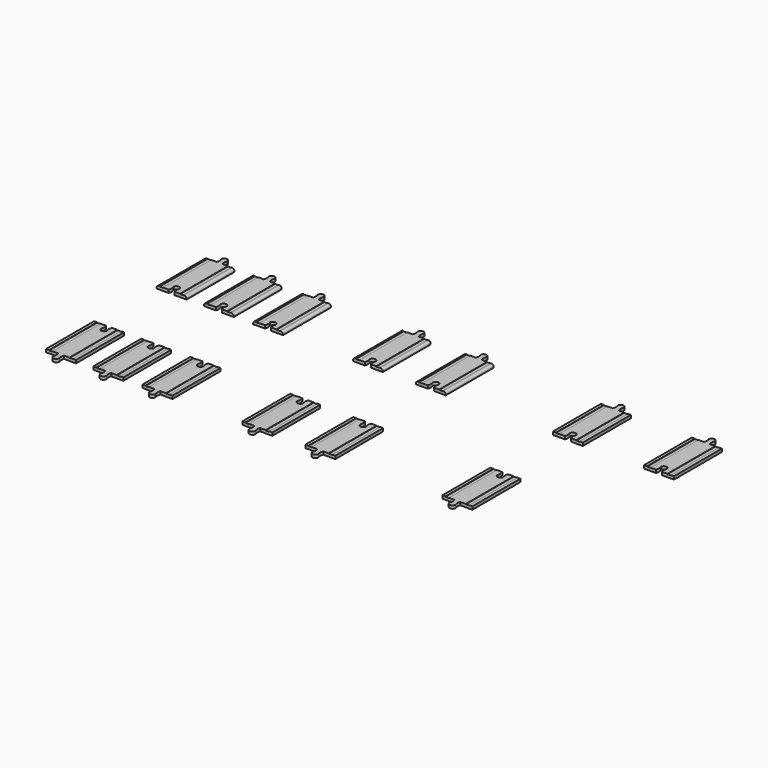
from build123d import *

# Parameters (mm, degrees)
F1_DEPTH = 6.35
F2_W     = 7.62
F2_H     = 127
F3_DEPTH = 0.635
F4_R     = 5.08


with BuildPart() as f1:
    # F0 (on Top) → F1 (new body)
    with BuildSketch(Plane.XY):
        with BuildLine():
            Line((-19.475365, 90.720635), (-44.875365, 90.720635))
            Line((-44.875365, 90.720635), (-44.875365, -36.279365))
            Line((-44.875365, -36.279365), (-19.475365, -36.279365))
            ThreePointArc((-19.475365, -36.279365), (-18.089429, -29.929365), (-19.475365, -23.579365))
            ThreePointArc((-19.475365, -23.579365), (-13.125365, -17.229365), (-6.775365, -23.579365))
            ThreePointArc((-6.775365, -23.579365), (-8.1613, -29.929365), (-6.775365, -36.279365))
            Line((-6.775365, -36.279365), (18.624635, -36.279365))
            Line((18.624635, -36.279365), (18.624635, 90.720635))
            Line((18.624635, 90.720635), (-6.775365, 90.720635))
            ThreePointArc((-6.775365, 90.720635), (-8.1613, 97.070635), (-6.775365, 103.420635))
            ThreePointArc((-6.775365, 103.420635), (-13.125365, 109.770635), (-19.475365, 103.420635))
            ThreePointArc((-19.475365, 103.420635), (-18.089429, 97.070635), (-19.475365, 90.720635))
        make_face()
        with BuildLine():
            ThreePointArc((93.209089, 103.420635), (86.859089, 109.770635), (80.509089, 103.420635))
            ThreePointArc((80.509089, 103.420635), (81.895025, 97.070635), (80.509089, 90.720635))
            Line((80.509089, 90.720635), (55.109089, 90.720635))
            Line((55.109089, 90.720635), (55.109089, -36.279365))
            Line((55.109089, -36.279365), (80.509089, -36.279365))
            ThreePointArc((80.509089, -36.279365), (81.895025, -29.929365), (80.509089, -23.579365))
            ThreePointArc((80.509089, -23.579365), (86.859089, -17.229365), (93.209089, -23.579365))
            ThreePointArc((93.209089, -23.579365), (91.823154, -29.929365), (93.209089, -36.279365))
            Line((93.209089, -36.279365), (118.609089, -36.279365))
            Line((118.609089, -36.279365), (118.609089, 90.720635))
            Line((118.609089, 90.720635), (93.209089, 90.720635))
            ThreePointArc((93.209089, 90.720635), (91.823154, 97.070635), (93.209089, 103.420635))
        make_face()
        with BuildLine():
            ThreePointArc((184.66997, -23.579365), (191.01997, -17.229365), (197.36997, -23.579365))
            ThreePointArc((197.36997, -23.579365), (195.984034, -29.929365), (197.36997, -36.279365))
            Line((197.36997, -36.279365), (222.76997, -36.279365))
            Line((222.76997, -36.279365), (222.76997, 90.720635))
            Line((222.76997, 90.720635), (197.36997, 90.720635))
            ThreePointArc((197.36997, 90.720635), (195.984034, 97.070635), (197.36997, 103.420635))
            ThreePointArc((197.36997, 103.420635), (191.01997, 109.770635), (184.66997, 103.420635))
            ThreePointArc((184.66997, 103.420635), (186.055906, 97.070635), (184.66997, 90.720635))
            Line((184.66997, 90.720635), (159.26997, 90.720635))
            Line((159.26997, 90.720635), (159.26997, -36.279365))
            Line((159.26997, -36.279365), (184.66997, -36.279365))
            ThreePointArc((184.66997, -36.279365), (186.055906, -29.929365), (184.66997, -23.579365))
        make_face()
        with BuildLine():
            ThreePointArc((396.073245, -23.579365), (402.423245, -17.229365), (408.773245, -23.579365))
            ThreePointArc((408.773245, -23.579365), (407.387309, -29.929365), (408.773245, -36.279365))
            Line((408.773245, -36.279365), (434.173245, -36.279365))
            Line((434.173245, -36.279365), (434.173245, 90.720635))
            Line((434.173245, 90.720635), (408.773245, 90.720635))
            ThreePointArc((408.773245, 90.720635), (407.387309, 97.070635), (408.773245, 103.420635))
            ThreePointArc((408.773245, 103.420635), (402.423245, 109.770635), (396.073245, 103.420635))
            ThreePointArc((396.073245, 103.420635), (397.459181, 97.070635), (396.073245, 90.720635))
            Line((396.073245, 90.720635), (370.673245, 90.720635))
            Line((370.673245, 90.720635), (370.673245, -36.279365))
            Line((370.673245, -36.279365), (396.073245, -36.279365))
            ThreePointArc((396.073245, -36.279365), (397.459181, -29.929365), (396.073245, -23.579365))
        make_face()
        with BuildLine():
            ThreePointArc((542.193569, 90.720635), (540.807633, 97.070635), (542.193569, 103.420635))
            ThreePointArc((542.193569, 103.420635), (535.843569, 109.770635), (529.493569, 103.420635))
            ThreePointArc((529.493569, 103.420635), (530.879504, 97.070635), (529.493569, 90.720635))
            Line((529.493569, 90.720635), (504.093569, 90.720635))
            Line((504.093569, 90.720635), (504.093569, -36.279365))
            Line((504.093569, -36.279365), (529.493569, -36.279365))
            ThreePointArc((529.493569, -36.279365), (530.879504, -29.929365), (529.493569, -23.579365))
            ThreePointArc((529.493569, -23.579365), (535.843569, -17.229365), (542.193569, -23.579365))
            ThreePointArc((542.193569, -23.579365), (540.807633, -29.929365), (542.193569, -36.279365))
            Line((542.193569, -36.279365), (567.593569, -36.279365))
            Line((567.593569, -36.279365), (567.593569, 90.720635))
            Line((567.593569, 90.720635), (542.193569, 90.720635))
        make_face()
        with BuildLine():
            ThreePointArc((-19.475365, -341.495116), (-13.125365, -347.845116), (-6.775365, -341.495116))
            ThreePointArc((-6.775365, -341.495116), (-8.1613, -335.145116), (-6.775365, -328.795116))
            Line((-6.775365, -328.795116), (18.624635, -328.795116))
            Line((18.624635, -328.795116), (18.624635, -201.795116))
            Line((18.624635, -201.795116), (-6.775365, -201.795116))
            ThreePointArc((-6.775365, -201.795116), (-8.1613, -208.145116), (-6.775365, -214.495116))
            ThreePointArc((-6.775365, -214.495116), (-13.125365, -220.845116), (-19.475365, -214.495116))
            ThreePointArc((-19.475365, -214.495116), (-18.089429, -208.145116), (-19.475365, -201.795116))
            Line((-19.475365, -201.795116), (-44.875365, -201.795116))
            Line((-44.875365, -201.795116), (-44.875365, -328.795116))
            Line((-44.875365, -328.795116), (-19.475365, -328.795116))
            ThreePointArc((-19.475365, -328.795116), (-18.089429, -335.145116), (-19.475365, -341.495116))
        make_face()
        with BuildLine():
            ThreePointArc((93.209089, -201.795116), (91.823154, -208.145116), (93.209089, -214.495116))
            ThreePointArc((93.209089, -214.495116), (86.859089, -220.845116), (80.509089, -214.495116))
            ThreePointArc((80.509089, -214.495116), (81.895025, -208.145116), (80.509089, -201.795116))
            Line((80.509089, -201.795116), (55.109089, -201.795116))
            Line((55.109089, -201.795116), (55.109089, -328.795116))
            Line((55.109089, -328.795116), (80.509089, -328.795116))
            ThreePointArc((80.509089, -328.795116), (81.895025, -335.145116), (80.509089, -341.495116))
            ThreePointArc((80.509089, -341.495116), (86.859089, -347.845116), (93.209089, -341.495116))
            ThreePointArc((93.209089, -341.495116), (91.823154, -335.145116), (93.209089, -328.795116))
            Line((93.209089, -328.795116), (118.609089, -328.795116))
            Line((118.609089, -328.795116), (118.609089, -201.795116))
            Line((118.609089, -201.795116), (93.209089, -201.795116))
        make_face()
        with BuildLine():
            ThreePointArc((197.36997, -201.795116), (195.984034, -208.145116), (197.36997, -214.495116))
            ThreePointArc((197.36997, -214.495116), (191.01997, -220.845116), (184.66997, -214.495116))
            ThreePointArc((184.66997, -214.495116), (186.055906, -208.145116), (184.66997, -201.795116))
            Line((184.66997, -201.795116), (159.26997, -201.795116))
            Line((159.26997, -201.795116), (159.26997, -328.795116))
            Line((159.26997, -328.795116), (184.66997, -328.795116))
            ThreePointArc((184.66997, -328.795116), (186.055906, -335.145116), (184.66997, -341.495116))
            ThreePointArc((184.66997, -341.495116), (191.01997, -347.845116), (197.36997, -341.495116))
            ThreePointArc((197.36997, -341.495116), (195.984034, -335.145116), (197.36997, -328.795116))
            Line((197.36997, -328.795116), (222.76997, -328.795116))
            Line((222.76997, -328.795116), (222.76997, -201.795116))
            Line((222.76997, -201.795116), (197.36997, -201.795116))
        make_face()
        with BuildLine():
            ThreePointArc((408.773245, -214.495116), (402.423245, -220.845116), (396.073245, -214.495116))
            ThreePointArc((396.073245, -214.495116), (397.459181, -208.145116), (396.073245, -201.795116))
            Line((396.073245, -201.795116), (370.673245, -201.795116))
            Line((370.673245, -201.795116), (370.673245, -328.795116))
            Line((370.673245, -328.795116), (396.073245, -328.795116))
            ThreePointArc((396.073245, -328.795116), (397.459181, -335.145116), (396.073245, -341.495116))
            ThreePointArc((396.073245, -341.495116), (402.423245, -347.845116), (408.773245, -341.495116))
            ThreePointArc((408.773245, -341.495116), (407.387309, -335.145116), (408.773245, -328.795116))
            Line((408.773245, -328.795116), (434.173245, -328.795116))
            Line((434.173245, -328.795116), (434.173245, -201.795116))
            Line((434.173245, -201.795116), (408.773245, -201.795116))
            ThreePointArc((408.773245, -201.795116), (407.387309, -208.145116), (408.773245, -214.495116))
        make_face()
        with BuildLine():
            ThreePointArc((542.193569, -201.795116), (540.807633, -208.145116), (542.193569, -214.495116))
            ThreePointArc((542.193569, -214.495116), (535.843569, -220.845116), (529.493569, -214.495116))
            ThreePointArc((529.493569, -214.495116), (530.879504, -208.145116), (529.493569, -201.795116))
            Line((529.493569, -201.795116), (504.093569, -201.795116))
            Line((504.093569, -201.795116), (504.093569, -328.795116))
            Line((504.093569, -328.795116), (529.493569, -328.795116))
            ThreePointArc((529.493569, -328.795116), (530.879504, -335.145116), (529.493569, -341.495116))
            ThreePointArc((529.493569, -341.495116), (535.843569, -347.845116), (542.193569, -341.495116))
            ThreePointArc((542.193569, -341.495116), (540.807633, -335.145116), (542.193569, -328.795116))
            Line((542.193569, -328.795116), (567.593569, -328.795116))
            Line((567.593569, -328.795116), (567.593569, -201.795116))
            Line((567.593569, -201.795116), (542.193569, -201.795116))
        make_face()
        with BuildLine():
            ThreePointArc((819.829785, -23.579365), (826.179785, -17.229365), (832.529785, -23.579365))
            ThreePointArc((832.529785, -23.579365), (831.143849, -29.929365), (832.529785, -36.279365))
            Line((832.529785, -36.279365), (857.929785, -36.279365))
            Line((857.929785, -36.279365), (857.929785, 90.720635))
            Line((857.929785, 90.720635), (832.529785, 90.720635))
            ThreePointArc((832.529785, 90.720635), (831.143849, 97.070635), (832.529785, 103.420635))
            ThreePointArc((832.529785, 103.420635), (826.179785, 109.770635), (819.829785, 103.420635))
            ThreePointArc((819.829785, 103.420635), (821.21572, 97.070635), (819.829785, 90.720635))
            Line((819.829785, 90.720635), (794.429785, 90.720635))
            Line((794.429785, 90.720635), (794.429785, -36.279365))
            Line((794.429785, -36.279365), (819.829785, -36.279365))
            ThreePointArc((819.829785, -36.279365), (821.21572, -29.929365), (819.829785, -23.579365))
        make_face()
        with BuildLine():
            ThreePointArc((819.829785, -328.795116), (821.21572, -335.145116), (819.829785, -341.495116))
            ThreePointArc((819.829785, -341.495116), (826.179785, -347.845116), (832.529785, -341.495116))
            ThreePointArc((832.529785, -341.495116), (831.143849, -335.145116), (832.529785, -328.795116))
            Line((832.529785, -328.795116), (857.929785, -328.795116))
            Line((857.929785, -328.795116), (857.929785, -201.795116))
            Line((857.929785, -201.795116), (832.529785, -201.795116))
            ThreePointArc((832.529785, -201.795116), (831.143849, -208.145116), (832.529785, -214.495116))
            ThreePointArc((832.529785, -214.495116), (826.179785, -220.845116), (819.829785, -214.495116))
            ThreePointArc((819.829785, -214.495116), (821.21572, -208.145116), (819.829785, -201.795116))
            Line((819.829785, -201.795116), (794.429785, -201.795116))
            Line((794.429785, -201.795116), (794.429785, -328.795116))
            Line((794.429785, -328.795116), (819.829785, -328.795116))
        make_face()
        with BuildLine():
            ThreePointArc((1012.788771, -23.579365), (1019.138771, -17.229365), (1025.488771, -23.579365))
            ThreePointArc((1025.488771, -23.579365), (1024.102835, -29.929365), (1025.488771, -36.279365))
            Line((1025.488771, -36.279365), (1050.888771, -36.279365))
            Line((1050.888771, -36.279365), (1050.888771, 90.720635))
            Line((1050.888771, 90.720635), (1025.488771, 90.720635))
            ThreePointArc((1025.488771, 90.720635), (1024.102835, 97.070635), (1025.488771, 103.420635))
            ThreePointArc((1025.488771, 103.420635), (1019.138771, 109.770635), (1012.788771, 103.420635))
            ThreePointArc((1012.788771, 103.420635), (1014.174707, 97.070635), (1012.788771, 90.720635))
            Line((1012.788771, 90.720635), (987.388771, 90.720635))
            Line((987.388771, 90.720635), (987.388771, -36.279365))
            Line((987.388771, -36.279365), (1012.788771, -36.279365))
            ThreePointArc((1012.788771, -36.279365), (1014.174707, -29.929365), (1012.788771, -23.579365))
        make_face()
    extrude(amount=F1_DEPTH)

    # F2 (on face) → F3 (cut)
    with BuildSketch(Plane.XY.offset(6.35)):
        with Locations((-34.715365, 27.220635)):
            Rectangle(F2_W, F2_H)
        with Locations((8.464635, 27.220635)):
            Rectangle(F2_W, F2_H)
        with Locations((65.269089, 27.220635)):
            Rectangle(F2_W, F2_H)
        with Locations((108.449089, 27.220635)):
            Rectangle(F2_W, F2_H)
        with Locations((169.42997, 27.220635)):
            Rectangle(F2_W, F2_H)
        with Locations((212.60997, 27.220635)):
            Rectangle(F2_W, F2_H)
        with Locations((380.833245, 27.220635)):
            Rectangle(F2_W, F2_H)
        with Locations((424.013245, 27.220635)):
            Rectangle(F2_W, F2_H)
        with Locations((514.253569, 27.220635)):
            Rectangle(F2_W, F2_H)
        with Locations((557.433569, 27.220635)):
            Rectangle(F2_W, F2_H)
        with Locations((804.589785, 27.220635)):
            Rectangle(F2_W, F2_H)
        with Locations((847.769785, 27.220635)):
            Rectangle(F2_W, F2_H)
        with Locations((424.013245, -265.295116)):
            Rectangle(F2_W, F2_H)
        with Locations((65.269089, -265.295116)):
            Rectangle(F2_W, F2_H)
        with Locations((-34.715365, -265.295116)):
            Rectangle(F2_W, F2_H)
        with Locations((169.42997, -265.295116)):
            Rectangle(F2_W, F2_H)
        with Locations((514.253569, -265.295116)):
            Rectangle(F2_W, F2_H)
        with Locations((847.769785, -265.295116)):
            Rectangle(F2_W, F2_H)
        with Locations((380.833245, -265.295116)):
            Rectangle(F2_W, F2_H)
        with Locations((212.60997, -265.295116)):
            Rectangle(F2_W, F2_H)
        with Locations((804.589785, -265.295116)):
            Rectangle(F2_W, F2_H)
        with Locations((8.464635, -265.295116)):
            Rectangle(F2_W, F2_H)
        with Locations((108.449089, -265.295116)):
            Rectangle(F2_W, F2_H)
        with Locations((557.433569, -265.295116)):
            Rectangle(F2_W, F2_H)
        with Locations((997.548771, 27.220635)):
            Rectangle(F2_W, F2_H)
        with Locations((1040.728771, 27.220635)):
            Rectangle(F2_W, F2_H)
    extrude(amount=-F3_DEPTH, mode=Mode.SUBTRACT)

    # F4
    f4_edges = [f1.edges().sort_by_distance(p)[0] for p in [
        (-44.875365, 27.220635, 6.35),
        (18.624635, 27.220635, 6.35),
        (55.109089, 27.220635, 6.35),
        (118.609089, 27.220635, 6.35),
        (159.26997, 27.220635, 6.35),
        (222.76997, 27.220635, 6.35),
        (370.673245, 27.220635, 6.35),
        (434.173245, 27.220635, 6.35),
        (504.093569, 27.220635, 6.35),
        (567.593569, 27.220635, 6.35),
    ]]
    fillet(f4_edges, radius=F4_R)


solid = f1.part
